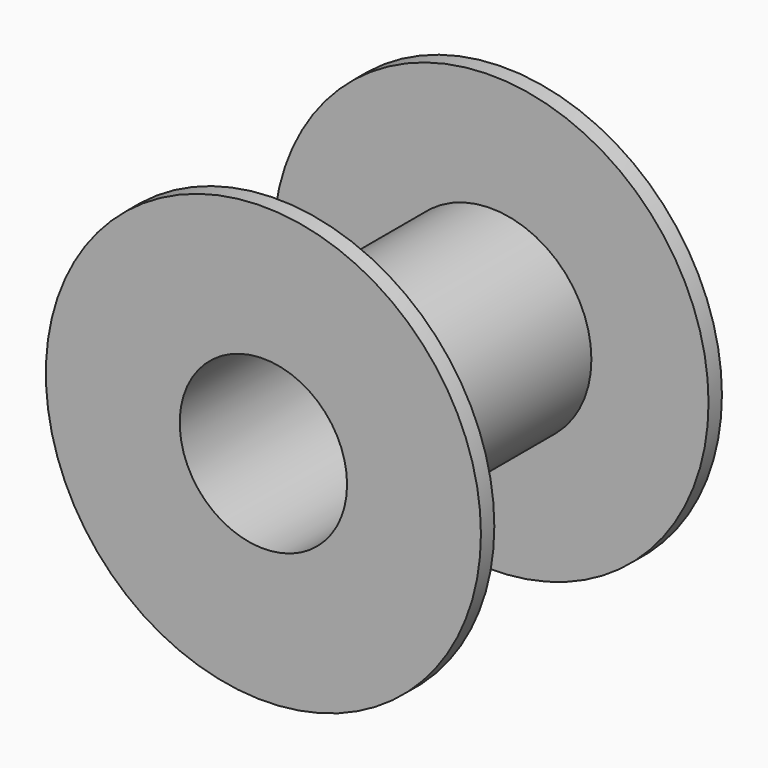
from build123d import *

# Parameters (mm, degrees)
F0_R     = 6.5
F0_R_2   = 2.5
F1_DEPTH = 0.5
F2_R     = 3
F2_R_2   = 2.5
F3_DEPTH = 8
F4_R     = 6.5
F4_R_2   = 2.5
F5_DEPTH = 0.5
F7_R     = 6.5
F7_R_2   = 2.5
F8_DEPTH = 0.5


with BuildPart() as f1:
    # F0 (on Front) → F1 (new body)
    with BuildSketch(Plane.XZ):
        Circle(F0_R)
        Circle(F0_R_2, mode=Mode.SUBTRACT)
    extrude(amount=F1_DEPTH)

    # F2 (on face) → F3 (join)
    with BuildSketch(Plane.XZ.offset(0.5)):
        Circle(F2_R)
        Circle(F2_R_2, mode=Mode.SUBTRACT)
    extrude(amount=F3_DEPTH)

    # F7 (on face) → F8 (join)
    with BuildSketch(Plane.XZ.offset(8.5)):
        Circle(F7_R)
        Circle(F7_R_2, mode=Mode.SUBTRACT)
    extrude(amount=F8_DEPTH)


with BuildPart() as f5:
    # F4 (on face) → F5 (new body)
    with BuildSketch(Plane.XZ):
        Circle(F4_R)
        Circle(F4_R_2, mode=Mode.SUBTRACT)
        Circle(F4_R)
        Circle(F4_R_2, mode=Mode.SUBTRACT)
    extrude(amount=F5_DEPTH)


solid = f1.part
